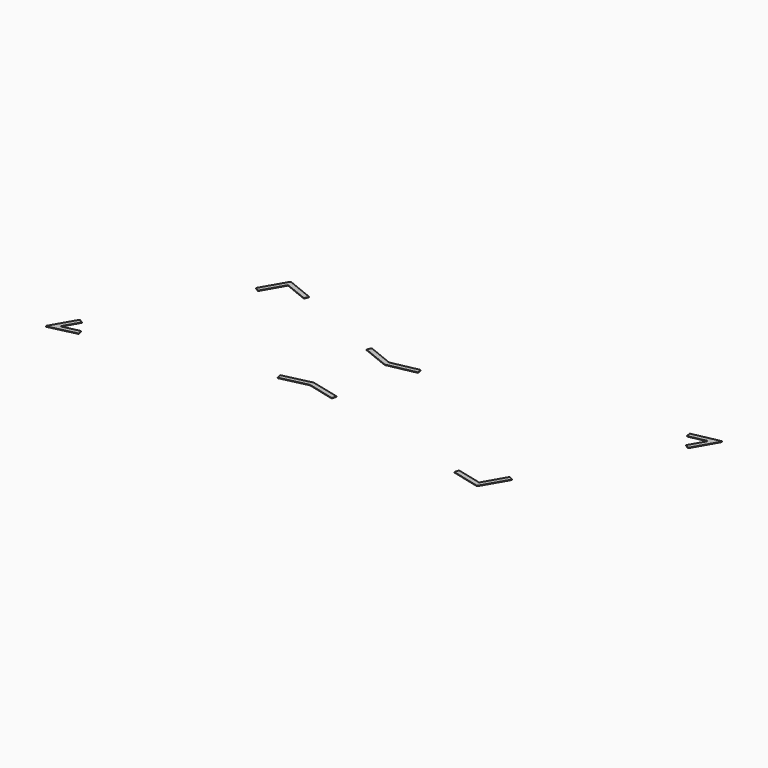
from build123d import *

# Parameters (mm, degrees)
F2_DEPTH = 1.5
F3_R     = 2
F4_R     = 2
F5_R     = 2
F6_R     = 2
F7_R     = 2
F8_R     = 2


with BuildPart() as f2:
    # F1 (on Top) → F2 (new body)
    with BuildSketch(Plane.XY):
        Polygon((674.120196, 157.685518), (767.820764, 179.317999), (861.147472, 156.125625), (865.006224, 171.653343), (767.957986, 195.770545), (670.520979, 173.275439), align=None)
        Polygon((448.58115, 574.911729), (355.862764, 612.372388), (305.862764, 525.769848), (319.719171, 517.769848), (362.764877, 592.327198), (442.587444, 560.076787), align=None)
        Polygon((945.038517, 431.035937), (851.779991, 412.008822), (764.089526, 447.43807), (758.09582, 432.603128), (850.255548, 395.368181), (948.237032, 415.358899), align=None)
        Polygon((54.031893, 89.585985), (4.031893, 2.983444), (101.4689, 25.47855), (97.869683, 41.068471), (36.28704, 26.850997), (67.8883, 81.585985), align=None)
        Polygon((1782.154563, 525.427659), (1832.154563, 612.030199), (1734.173079, 592.039482), (1737.371594, 576.362444), (1800.525758, 589.247502), (1768.298157, 533.427659), align=None)
        Polygon((1383.080823, 26.421346), (1480.129062, 2.304145), (1530.129062, 88.906685), (1516.272655, 96.906685), (1472.296243, 20.737305), (1386.939575, 41.949065), align=None)
    extrude(amount=-F2_DEPTH)

    # F3
    f3_edges = [f2.edges().sort_by_distance(p)[0] for p in [
        (355.862764, 612.372388, -0.75),
        (448.58115, 574.911729, -0.75),
        (442.587444, 560.076787, -0.75),
        (362.764877, 592.327198, -0.75),
        (319.719171, 517.769848, -0.75),
        (305.862764, 525.769848, -0.75),
    ]]
    fillet(f3_edges, radius=F3_R)

    # F4
    f4_edges = [f2.edges().sort_by_distance(p)[0] for p in [
        (764.089526, 447.43807, -0.75),
        (758.09582, 432.603128, -0.75),
        (851.779991, 412.008822, -0.75),
        (945.038517, 431.035937, -0.75),
        (948.237032, 415.358899, -0.75),
        (850.255548, 395.368181, -0.75),
    ]]
    fillet(f4_edges, radius=F4_R)

    # F5
    f5_edges = [f2.edges().sort_by_distance(p)[0] for p in [
        (1734.173079, 592.039482, -0.75),
        (1737.371594, 576.362444, -0.75),
        (1768.298157, 533.427659, -0.75),
        (1782.154563, 525.427659, -0.75),
        (1800.525758, 589.247502, -0.75),
        (1832.154563, 612.030199, -0.75),
    ]]
    fillet(f5_edges, radius=F5_R)

    # F6
    f6_edges = [f2.edges().sort_by_distance(p)[0] for p in [
        (1386.939575, 41.949065, -0.75),
        (1383.080823, 26.421346, -0.75),
        (1472.296243, 20.737305, -0.75),
        (1480.129062, 2.304145, -0.75),
        (1516.272655, 96.906685, -0.75),
        (1530.129062, 88.906685, -0.75),
    ]]
    fillet(f6_edges, radius=F6_R)

    # F7
    f7_edges = [f2.edges().sort_by_distance(p)[0] for p in [
        (674.120196, 157.685518, -0.75),
        (670.520979, 173.275439, -0.75),
        (767.820764, 179.317999, -0.75),
        (861.147472, 156.125625, -0.75),
        (865.006224, 171.653343, -0.75),
        (767.957986, 195.770545, -0.75),
    ]]
    fillet(f7_edges, radius=F7_R)

    # F8
    f8_edges = [f2.edges().sort_by_distance(p)[0] for p in [
        (101.4689, 25.47855, -0.75),
        (97.869683, 41.068471, -0.75),
        (4.031893, 2.983444, -0.75),
        (54.031893, 89.585985, -0.75),
        (67.8883, 81.585985, -0.75),
        (36.28704, 26.850997, -0.75),
    ]]
    fillet(f8_edges, radius=F8_R)


solid = f2.part
